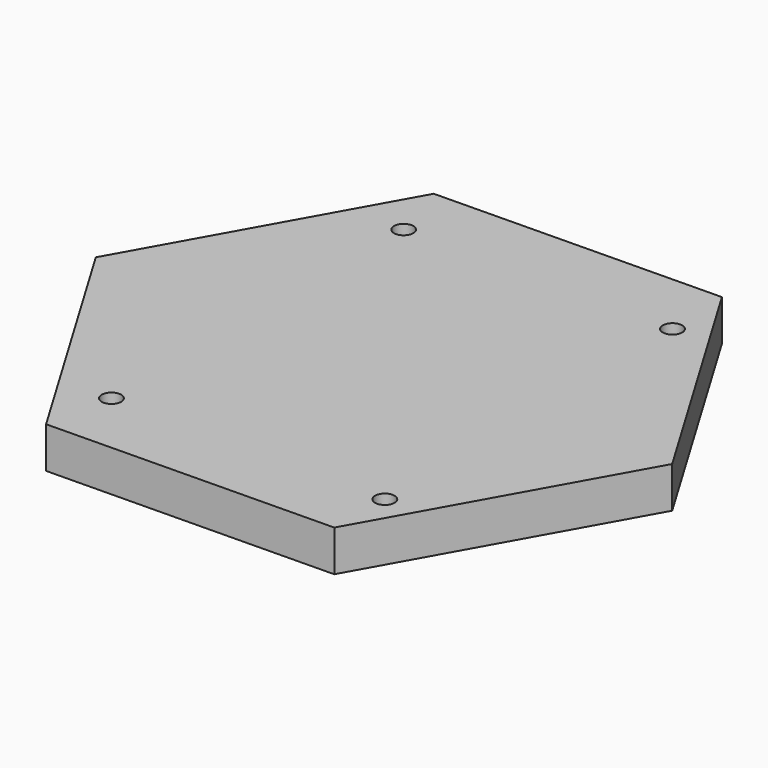
from build123d import *

# Parameters (mm, degrees)
F1_DEPTH = 12.7
F3_D     = 5.9944
F3_DEPTH = 5.08
F3_TIP   = 1.8008994473


with BuildPart() as f1:
    # F0 (on Top) → F1 (new body)
    with BuildSketch(Plane.XY):
        Polygon((45.0902102752, -75.5565545624), (87.979000811, 1.2709902791), (42.8887905359, 76.8275448415), (-45.0902102752, 75.5565545624), (-87.979000811, -1.2709902791), (-42.8887905359, -76.8275448415), align=None)
    extrude(amount=F1_DEPTH)

    # F3
    with Locations(Plane.XY.offset(12.7)):
        with Locations((-39.0446968377, 56.39789626), (43.9692549407, 56.39789626), (-39.0446968377, -56.39789626), (45.3762710094, -56.39789626)):
            Hole(F3_D / 2, depth=F3_DEPTH)
            with Locations((0, 0, -(F3_DEPTH + F3_TIP / 2))):  # 118° drill point
                Cone(0, F3_D / 2, F3_TIP, mode=Mode.SUBTRACT)


solid = f1.part
